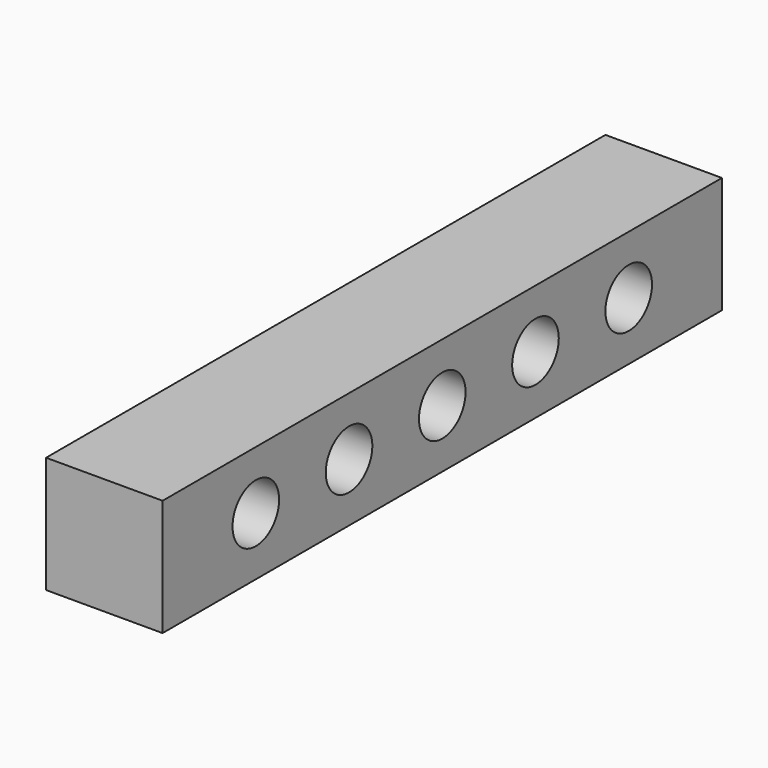
from build123d import *

# Parameters (mm, degrees)
F0_W          = 38.1
F0_H          = 6.35
F0_R          = 1.5875
F1_DEPTH      = 3.175
F1_DEPTH_BACK = 3.175


with BuildPart() as f1:
    # F0 (on Right) → F1 (new body, two sides)
    with BuildSketch(Plane.YZ) as f1_sk:
        Rectangle(F0_W, F0_H)
        with Locations((-12.7, 0)):
            Circle(F0_R, mode=Mode.SUBTRACT)
        with Locations((-6.35, 0)):
            Circle(F0_R, mode=Mode.SUBTRACT)
        Circle(F0_R, mode=Mode.SUBTRACT)
        with Locations((6.35, 0)):
            Circle(F0_R, mode=Mode.SUBTRACT)
        with Locations((12.7, 0)):
            Circle(F0_R, mode=Mode.SUBTRACT)
    extrude(amount=F1_DEPTH)
    extrude(f1_sk.sketch, amount=-F1_DEPTH_BACK)


solid = f1.part
